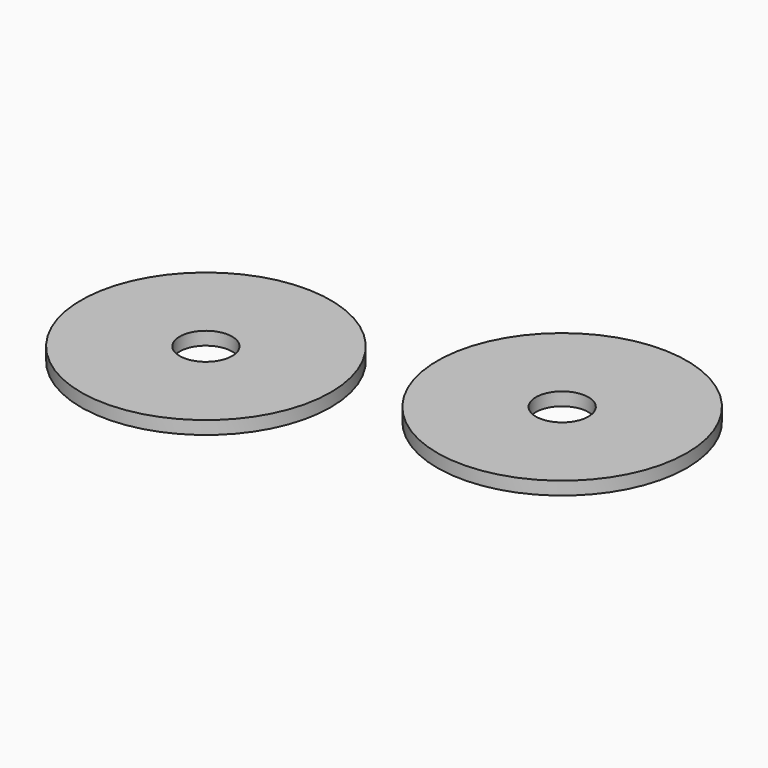
from build123d import *

# Parameters (mm, degrees)
F0_R     = 7.540625
F0_R_2   = 1.5875
F1_DEPTH = 0.79375


with BuildPart() as f1:
    # F0 (on Top) → F1 (new body)
    with BuildSketch(Plane.XY):
        with Locations((-22.637497, 45.90091)):
            Circle(F0_R)
        with Locations((-22.637497, 45.90091)):
            Circle(F0_R_2, mode=Mode.SUBTRACT)
        with Locations((-5.648395, 51.563944)):
            Circle(F0_R)
        with Locations((-5.648395, 51.563944)):
            Circle(F0_R_2, mode=Mode.SUBTRACT)
    extrude(amount=F1_DEPTH)


solid = f1.part
